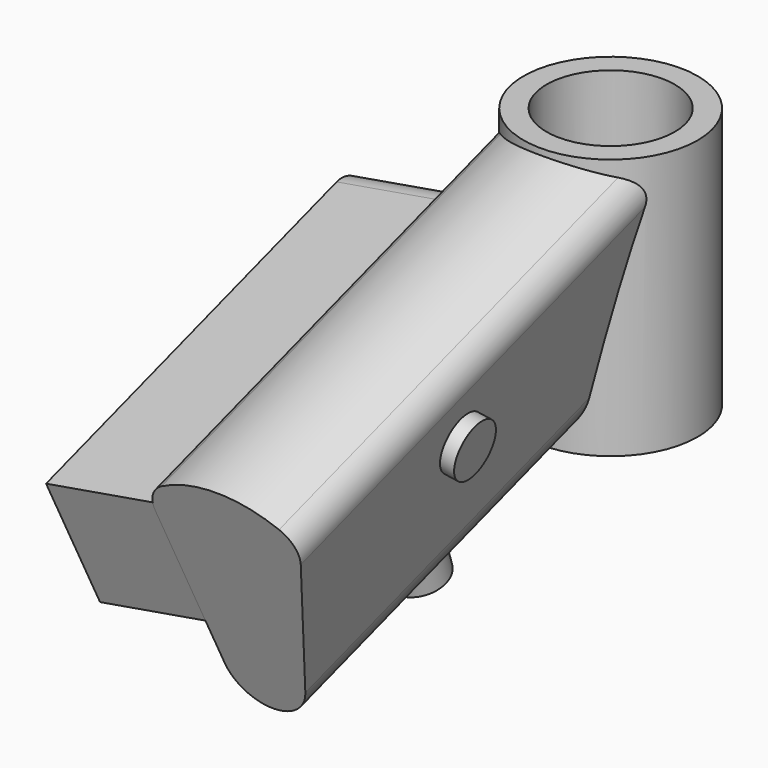
from build123d import *

# Parameters (mm, degrees)
CYLINDER002_R         = 20
CYLINDER002_DEPTH     = 10
PAD_DEPTH             = 100
CLONE_PLACEMENT_ANGLE = 18
SKETCH010_R           = 6
PAD008_DEPTH          = 3
SKETCH011_R           = 6
PAD009_DEPTH          = 10
PAD010_DEPTH          = 25
PAD010_DEPTH_BACK     = 1
CYLINDER_R            = 19
CYLINDER_DEPTH        = 57
SKETCH006_R           = 14
POCKET001_DEPTH       = 20.9027
POCKET001_DEPTH_BACK  = 57.001
SKETCH001_W           = 7.25
SKETCH001_H           = 26.8
PAD001_DEPTH          = 1.5
POLARPATTERN_COUNT    = 6


with BuildPart() as cylinder002:
    # Cylinder002 → Cylinder002 (new body)
    with BuildSketch(Plane.XY.offset(56)):
        Circle(CYLINDER002_R)
    extrude(amount=CYLINDER002_DEPTH)


with BuildPart() as cut:
    # Sketch → Pad (new body)
    with BuildSketch(Plane.XZ):
        with BuildLine():
            Line((-15.852902, 39.699504), (-8.796326, 7.096149))
            ThreePointArc((-8.796326, 7.096149), (0, 0), (8.796326, 7.096149))
            Line((8.796326, 7.096149), (15.852902, 39.699504))
            ThreePointArc((15.852902, 39.699504), (15.463392, 43.660617), (12.837838, 46.652038))
            ThreePointArc((12.837838, 46.652038), (0, 50.2), (-12.837838, 46.652038))
            ThreePointArc((-12.837838, 46.652038), (-15.463392, 43.660617), (-15.852902, 39.699504))
        make_face()
    extrude(amount=PAD_DEPTH)


with BuildPart() as cut_1:
    # Body placement: moved
    add(cut.part.moved(Location((100, 0, 0))))


with BuildPart() as cut_2:
    # Clone placement: moved
    add(cut_1.part.moved(Location((-100, 3, 10))).rotate(Axis((-100, 3, 10), (1, 0, 0)), CLONE_PLACEMENT_ANGLE))

    # Sketch010 (on Face3 of Clone) → Pad008 (new body)
    with BuildSketch(Plane(origin=(6.93556, 3.463869, 8.572357), x_dir=(0, 0.951057, 0.309017), z_dir=(0.97737, 0.065369, -0.201186))):
        with Locations((-54.5, 31)):
            Circle(SKETCH010_R)
    extrude(amount=PAD008_DEPTH)

    # Sketch011 → Pad009 (join)
    with BuildSketch(Plane(origin=(0, 0, 6), x_dir=(1, 0, 0), z_dir=(0, -0.309017, 0.951057))):
        with Locations((0, -55.223284)):
            Circle(SKETCH011_R)
    extrude(amount=PAD009_DEPTH)

    # Sketch012 (on Face1 of Pad009) → Pad010 (join, two sides)
    with BuildSketch(Plane(origin=(-6.93556, 3.463869, 8.572357), x_dir=(0, -0.951057, -0.309017), z_dir=(-0.97737, 0.065369, -0.201186))) as pad010_sk:
        with BuildLine():
            Line((16.544459, 44), (99.9, 44))
            Line((99.9, 44), (99.9, 18))
            Line((99.9, 18), (23.31369, 18))
            ThreePointArc((18.708854, 21.0518), (20.551535, 18.832207), (23.31369, 18))
            Line((18.708854, 21.0518), (11.939623, 37.0518))
            ThreePointArc((16.544459, 44), (12.376666, 41.762155), (11.939623, 37.0518))
        make_face()
    extrude(amount=PAD010_DEPTH)
    extrude(pad010_sk.sketch, amount=-PAD010_DEPTH_BACK)

    # Cut: cut Cylinder002
    add(cylinder002.part, mode=Mode.SUBTRACT)


with BuildPart() as obj1:
    # Cylinder → Cylinder (new body)
    with BuildSketch(Plane.XY):
        Circle(CYLINDER_R)
    extrude(amount=CYLINDER_DEPTH)

    # Fusion: union Cut
    add(cut_2.part)

    # Sketch006 → Pocket001 (cut, two sides)
    with BuildSketch(Plane.XY) as pocket001_sk:
        Circle(SKETCH006_R)
    extrude(amount=-POCKET001_DEPTH, mode=Mode.SUBTRACT)
    extrude(pocket001_sk.sketch, amount=POCKET001_DEPTH_BACK, mode=Mode.SUBTRACT)

    # Sketch001 → Pad001 (join, symmetric)
    with BuildSketch(Plane.YZ):
        with Locations((11.375, 22)):
            Rectangle(SKETCH001_W, SKETCH001_H)
    pad001 = extrude(amount=PAD001_DEPTH, both=True)

    # PolarPattern: Pad001 ×6 about axis
    polarpattern_axis = Axis((0, 0, 0), (0, 0, 1))
    for i in range(1, POLARPATTERN_COUNT):
        add(pad001.rotate(polarpattern_axis, i * 360 / POLARPATTERN_COUNT))


solid = obj1.part
